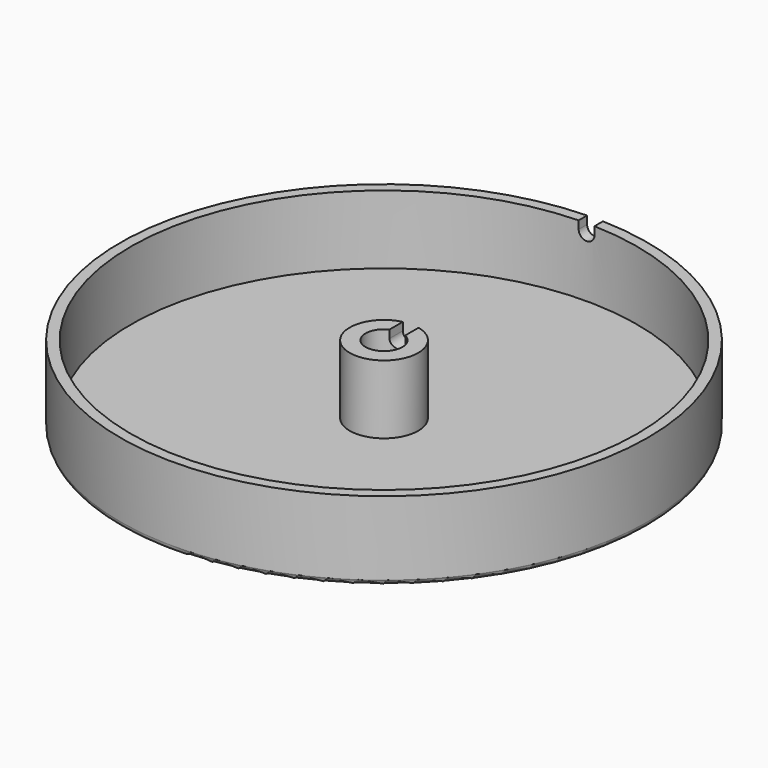
from build123d import *

# Parameters (mm, degrees)
F0_R     = 48
F0_R_2   = 6.5
F1_DEPTH = 2
F0_R_3   = 50
F0_R_4   = 3.5
F2_DEPTH = 15
F4_DEPTH = 70
F5_R     = 1


with BuildPart() as f1:
    # F0 (on Top) → F1 (new body)
    with BuildSketch(Plane.XY):
        Circle(F0_R)
        Circle(F0_R_2, mode=Mode.SUBTRACT)
    extrude(amount=F1_DEPTH)

    # F0 (on Top) → F2 (join)
    with BuildSketch(Plane.XY):
        Circle(F0_R_3)
        Circle(F0_R, mode=Mode.SUBTRACT)
        Circle(F0_R_2)
        Circle(F0_R_4, mode=Mode.SUBTRACT)
    extrude(amount=F2_DEPTH)

    # F3 (on Front) → F4 (cut)
    with BuildSketch(Plane.XZ):
        with BuildLine():
            ThreePointArc((-1.5, 13.5), (0, 15), (1.5, 13.5))
            Line((1.5, 13.5), (1.5, 16.5))
            Line((1.5, 16.5), (-1.5, 16.5))
            Line((-1.5, 16.5), (-1.5, 13.5))
        make_face()
        with BuildLine():
            Line((-1.5, 13.5), (1.5, 13.5))
            ThreePointArc((1.5, 13.5), (0, 15), (-1.5, 13.5))
        make_face()
        with BuildLine():
            ThreePointArc((-1.5, 13.5), (0, 12), (1.5, 13.5))
            Line((1.5, 13.5), (-1.5, 13.5))
        make_face()
    extrude(amount=-F4_DEPTH, mode=Mode.SUBTRACT)

    # F5
    f5_edges = [f1.edges().sort_by_distance(p)[0] for p in [
        (-50, 0, 0),
    ]]
    fillet(f5_edges, radius=F5_R)


solid = f1.part
